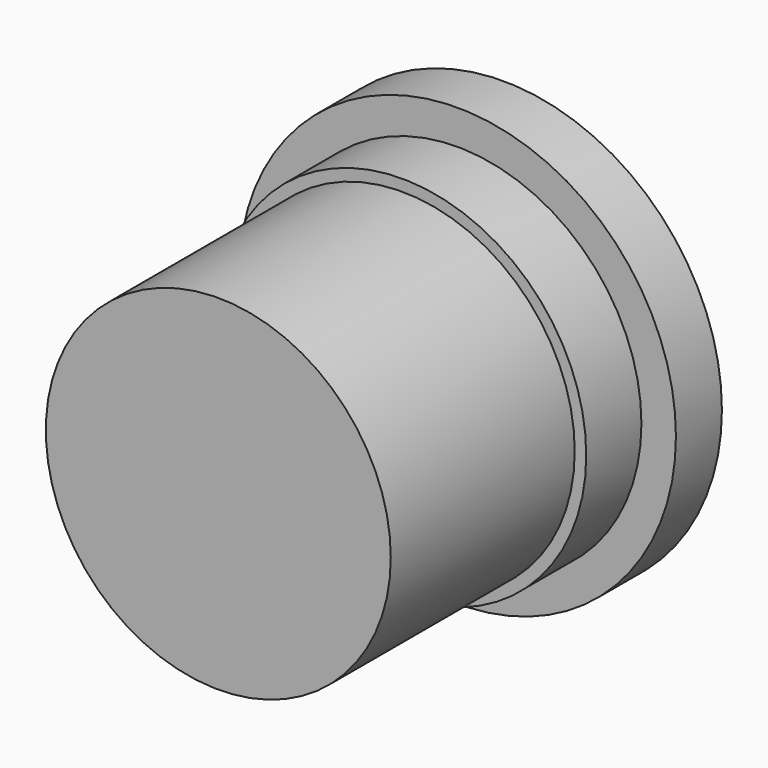
from build123d import *

# Parameters (mm, degrees)
SKETCH_R     = 30
PAD_DEPTH    = 20
SKETCH001_R  = 32
PAD001_DEPTH = 12
SKETCH002_R  = 38
PAD002_DEPTH = 10


with BuildPart() as pad001:
    # Sketch → Pad (new body, symmetric)
    with BuildSketch(Plane.XZ):
        Circle(SKETCH_R)
    extrude(amount=PAD_DEPTH, both=True)

    # Sketch001 → Pad001 (new body)
    with BuildSketch(Plane.XZ.offset(20)):
        Circle(SKETCH001_R)
    extrude(amount=PAD001_DEPTH)


with BuildPart() as part_mirroring:
    # Part__Mirroring: instance of Pad001
    add(pad001.part.mirror(Plane(origin=(0, 0, 0), x_dir=(1, 0, 0), z_dir=(0, 1, 0))))


with BuildPart() as pad002:
    # Pad002 base: copy of Pad001
    add(pad001.part)

    # Sketch002 → Pad002 (new body)
    with BuildSketch(Plane.XZ.offset(32)):
        Circle(SKETCH002_R)
    extrude(amount=PAD002_DEPTH)


with BuildPart() as part_mirroring001:
    # Part__Mirroring001: instance of Pad002
    add(pad002.part.mirror(Plane(origin=(0, 0, 0), x_dir=(1, 0, 0), z_dir=(0, 1, 0))))


solid = Compound([part_mirroring.part, part_mirroring001.part])
